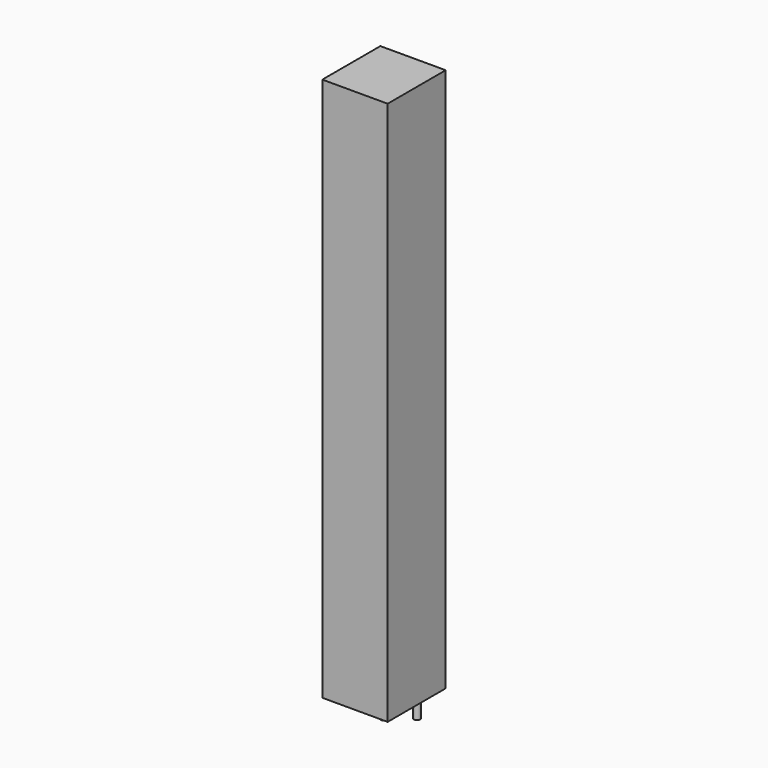
from build123d import *

# Parameters (mm, degrees)
SKETCH_W     = 9
SKETCH_H     = 10
PAD_DEPTH    = 75
SKETCH001_R  = 0.45
PAD001_DEPTH = 3.5


with BuildPart() as pad:
    # Sketch → Pad (new body)
    with BuildSketch(Plane.XY.offset(0.1)):
        Rectangle(SKETCH_W, SKETCH_H)
    extrude(amount=PAD_DEPTH)


with BuildPart() as pad001:
    # Sketch001 → Pad001 (new body)
    with BuildSketch(Plane.XY.offset(0.5)):
        Circle(SKETCH001_R)
        with Locations((2.7, 2.3)):
            Circle(SKETCH001_R)
    extrude(amount=-PAD001_DEPTH)


solid = Compound([pad.part, pad001.part])
